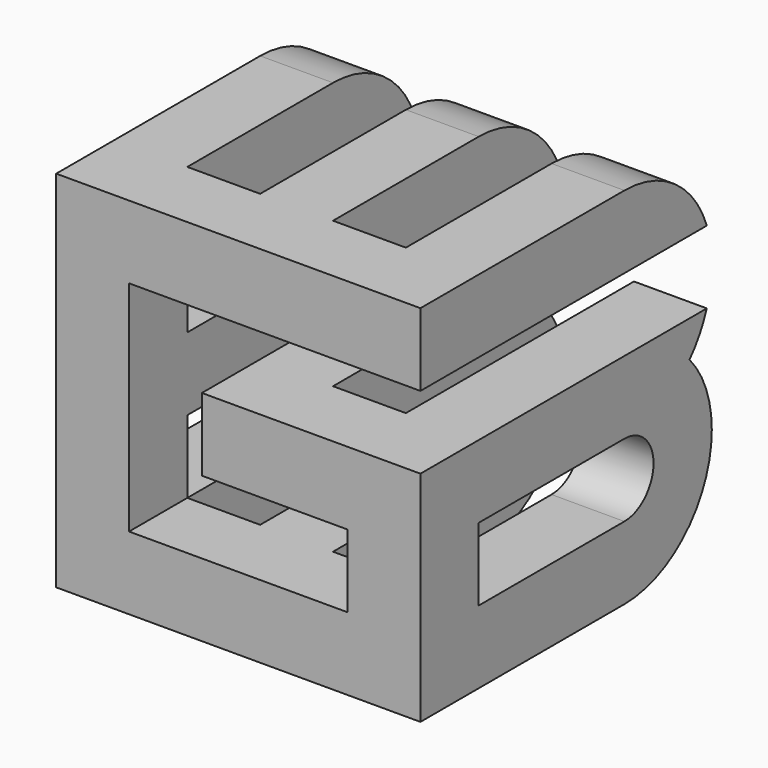
from build123d import *

# Parameters (mm, degrees)
F0_W     = 25.4
F0_H     = 25.4
F1_DEPTH = 25.4
F2_W     = 5.08
F2_H     = 20.32
F3_DEPTH = 25.4
F5_DEPTH = 25.4
F7_DEPTH = 25.4


with BuildPart() as f1:
    # F0 (on Top) → F1 (new body)
    with BuildSketch(Plane.XY):
        Rectangle(F0_W, F0_H)
    extrude(amount=F1_DEPTH)

    # F2 (on face) → F3 (cut)
    with BuildSketch(Plane.XY.offset(25.4)):
        with Locations((-5.08, 2.54)):
            Rectangle(F2_W, F2_H)
        with Locations((5.08, 2.54)):
            Rectangle(F2_W, F2_H)
    extrude(amount=-F3_DEPTH, mode=Mode.SUBTRACT)

    # F4 (on face) → F5 (cut)
    with BuildSketch(Plane.YZ.offset(12.7)):
        with BuildLine():
            Line((5.08, 20.32), (-7.62, 20.32))
            Line((-7.62, 20.32), (-7.62, 15.24))
            Line((-7.62, 15.24), (5.08, 15.24))
            ThreePointArc((5.08, 15.24), (7.62, 17.78), (5.08, 20.32))
        make_face()
        with BuildLine():
            Line((5.08, 10.16), (-7.62, 10.16))
            Line((-7.62, 10.16), (-7.62, 5.08))
            Line((-7.62, 5.08), (5.08, 5.08))
            ThreePointArc((5.08, 5.08), (7.62, 7.62), (5.08, 10.16))
        make_face()
        with BuildLine():
            ThreePointArc((5.08, 25.4), (10.4681536726, 23.1681536726), (12.7, 17.78))
            Line((12.7, 17.78), (12.7, 25.4))
            Line((12.7, 25.4), (5.08, 25.4))
        make_face()
        with BuildLine():
            ThreePointArc((10.7596126628, 12.7), (12.1983933753, 10.3389843241), (12.7, 7.62))
            Line((12.7, 7.62), (12.7, 17.78))
            ThreePointArc((12.7, 17.78), (12.1983933753, 15.0610156759), (10.7596126628, 12.7))
        make_face()
        with BuildLine():
            ThreePointArc((12.7, 7.62), (10.4681536726, 2.2318463274), (5.08, 0))
            Line((5.08, 0), (12.7, 0))
            Line((12.7, 0), (12.7, 7.62))
        make_face()
    extrude(amount=-F5_DEPTH, mode=Mode.SUBTRACT)

    # F6 (on face) → F7 (cut)
    with BuildSketch(Plane.XZ.offset(12.7)):
        Polygon((12.7, 15.24), (12.7, 20.32), (-7.62, 20.32), (-7.62, 15.24), (-7.62, 5.08), (-2.54, 5.08), (7.62, 5.08), (7.62, 10.16), (-2.54, 10.16), (-2.54, 15.24), align=None)
    extrude(amount=-F7_DEPTH, mode=Mode.SUBTRACT)


solid = f1.part
